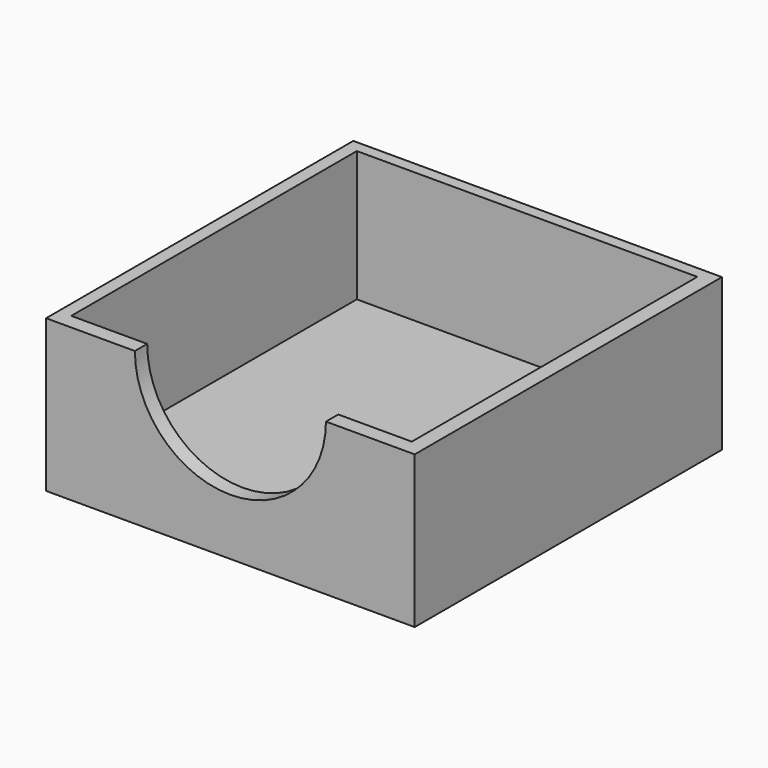
from build123d import *

# Parameters (mm, degrees)
F0_W     = 60.96
F0_H     = 63.5
F1_DEPTH = 25.146
F2_W     = 56.310931
F2_H     = 59.023448
F3_DEPTH = 21.59
F5_DEPTH = 25.4


with BuildPart() as f1:
    # F0 (on Top) → F1 (new body)
    with BuildSketch(Plane.XY):
        with Locations((30.48, 31.75)):
            Rectangle(F0_W, F0_H)
    extrude(amount=F1_DEPTH)

    # F2 (on face) → F3 (cut)
    with BuildSketch(Plane.XY.offset(25.146)):
        with Locations((30.285216, 32.056931)):
            Rectangle(F2_W, F2_H)
    extrude(amount=-F3_DEPTH, mode=Mode.SUBTRACT)

    # F4 (on face) → F5 (cut)
    with BuildSketch(Plane.XZ):
        with BuildLine():
            ThreePointArc((14.683233, 25.146), (30.48, 9.349233), (46.276767, 25.146))
            Line((46.276767, 25.146), (14.683233, 25.146))
        make_face()
    extrude(amount=-F5_DEPTH, mode=Mode.SUBTRACT)


solid = f1.part
